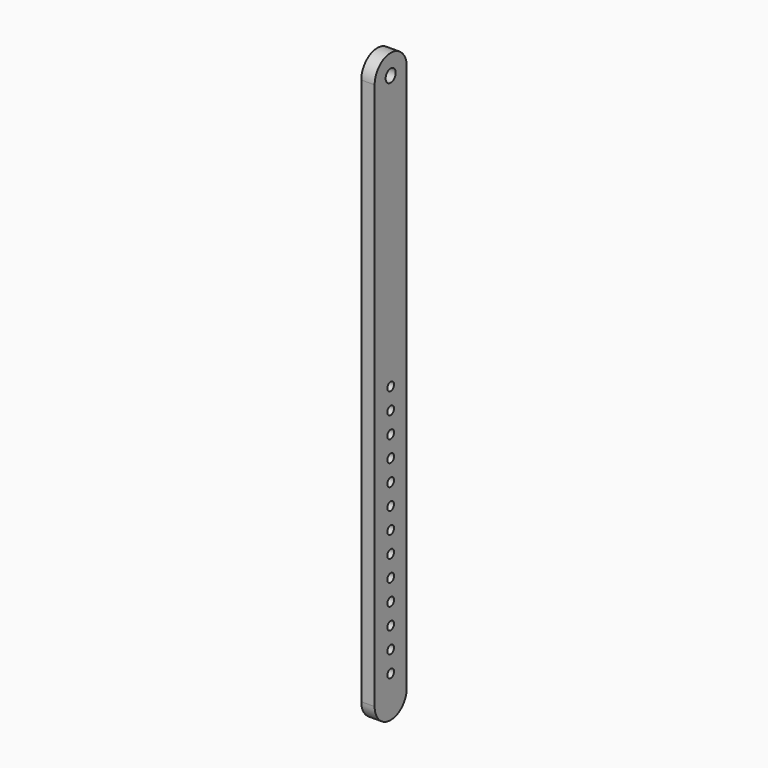
from build123d import *

# Parameters (mm, degrees)
F0_R     = 4
F0_R_2   = 6
F1_DEPTH = 12.7


with BuildPart() as f1:
    # F0 (on Right) → F1 (new body)
    with BuildSketch(Plane.YZ):
        with BuildLine():
            ThreePointArc((19.05, 260), (0, 279.05), (-19.05, 260))
            Line((-19.05, 260), (-19.05, -260))
            ThreePointArc((-19.05, -260), (0, -279.05), (19.05, -260))
            Line((19.05, -260), (19.05, 260))
        make_face()
        with Locations((0, -240)):
            Circle(F0_R, mode=Mode.SUBTRACT)
        with Locations((0, -220)):
            Circle(F0_R, mode=Mode.SUBTRACT)
        with Locations((0, -200)):
            Circle(F0_R, mode=Mode.SUBTRACT)
        with Locations((0, -180)):
            Circle(F0_R, mode=Mode.SUBTRACT)
        with Locations((0, -160)):
            Circle(F0_R, mode=Mode.SUBTRACT)
        with Locations((0, -140)):
            Circle(F0_R, mode=Mode.SUBTRACT)
        with Locations((0, -120)):
            Circle(F0_R, mode=Mode.SUBTRACT)
        with Locations((0, -100)):
            Circle(F0_R, mode=Mode.SUBTRACT)
        with Locations((0, -80)):
            Circle(F0_R, mode=Mode.SUBTRACT)
        with Locations((0, -60)):
            Circle(F0_R, mode=Mode.SUBTRACT)
        with Locations((0, -40)):
            Circle(F0_R, mode=Mode.SUBTRACT)
        with Locations((0, -20)):
            Circle(F0_R, mode=Mode.SUBTRACT)
        Circle(F0_R, mode=Mode.SUBTRACT)
        with Locations((0, 260)):
            Circle(F0_R_2, mode=Mode.SUBTRACT)
    extrude(amount=-F1_DEPTH)


solid = f1.part
